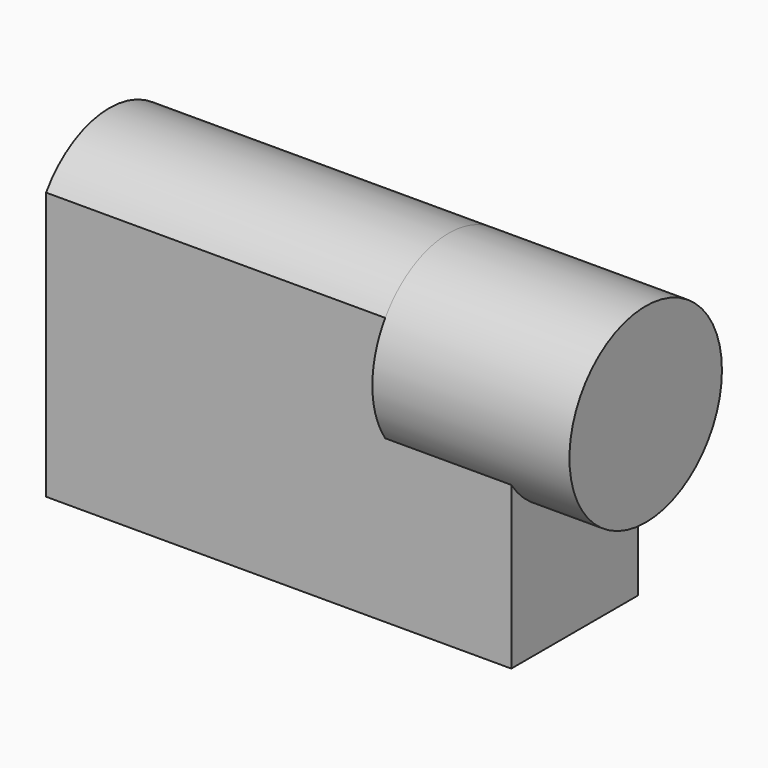
from build123d import *

# Parameters (mm, degrees)
F0_W      = 72
F0_H      = 24.5
F1_DEPTH  = 18.5
F3_DEPTH  = 11
F3_FACE_R = 14.75
F4_DEPTH  = 19.5
F5_W      = 72
F5_H      = 24.5
F6_DEPTH  = 22.945
F8_DEPTH  = 52.5


with BuildPart() as f1:
    # F0 (on Top) → F1 (new body)
    with BuildSketch(Plane.XY):
        with Locations((36, 12.25)):
            Rectangle(F0_W, F0_H)
    extrude(amount=F1_DEPTH)

    # F2 (on face) → F3 (join)
    with BuildSketch(Plane.YZ.offset(72)):
        with BuildLine():
            ThreePointArc((12.25, 18.5), (22.679825, 22.820175), (27, 33.25))
            ThreePointArc((27, 33.25), (1.820175, 43.679825), (12.25, 18.5))
        make_face()
    extrude(amount=F3_DEPTH)



with BuildPart() as f4:
    # F3_face (on face) → F4 (new body)
    with BuildSketch(Plane(origin=(72, 12.25, 33.25), x_dir=(0, 1, 0), z_dir=(-1, 0, 0))):
        Circle(F3_FACE_R)
    extrude(amount=F4_DEPTH)


with BuildPart() as f1_1:
    add(f1.part)

    add(f4.part)  # F6 merges F4
    # F5 (on face) → F6 (join)
    with BuildSketch(Plane.XY.offset(18.5)):
        with Locations((36, 12.25)):
            Rectangle(F5_W, F5_H)
    extrude(amount=F6_DEPTH)

    # F7 (on face) → F8 (join, through all)
    with BuildSketch(Plane(origin=(0, 0, 0), x_dir=(0, -1, 0), z_dir=(-1, 0, 0))):
        with BuildLine():
            Line((-24.5, 41.445), (0, 41.445))
            ThreePointArc((0, 41.445), (-12.25, 47.995), (-24.5, 41.445))
        make_face()
    extrude(amount=-F8_DEPTH)


solid = f1_1.part
